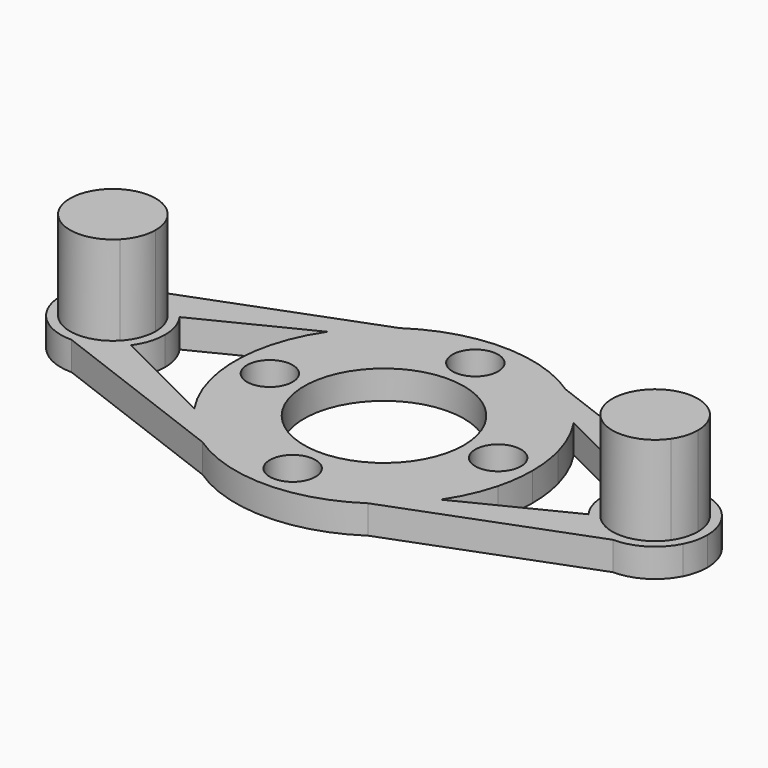
from build123d import *

# Parameters (mm, degrees)
F0_R     = 1.6
F0_R_2   = 5.6
F1_DEPTH = 2
F2_DEPTH = 8.25


with BuildPart() as f1:
    # F0 (on Top) → F1 (new body)
    with BuildSketch(Plane.XY):
        with BuildLine():
            ThreePointArc((-18.9731018348, 3.6568268038), (-17.320799056, 3.2485981552), (-16.0322288298, 2.1366890427))
            Line((-16.0322288298, 2.1366890427), (-8.6335967813, 5.828463599))
            ThreePointArc((-8.6335967813, 5.828463599), (-7.3586805521, 7.372909998), (-5.8117741191, 8.6448402469))
            Line((-5.8117741191, 8.6448402469), (-18.9731018348, 3.6568268038))
        make_face()
        with BuildLine():
            ThreePointArc((-8.6335967813, 5.828463599), (-9.4944345457, 4.2855214342), (-10.0821279265, 2.6192895563))
            ThreePointArc((-10.0821279265, 2.6192895563), (-10.416812435, 0), (-10.0821279265, -2.6192895563))
            ThreePointArc((-10.0821279265, -2.6192895563), (-9.4944345457, -4.2855214342), (-8.6335967813, -5.828463599))
            ThreePointArc((-8.6335967813, -5.828463599), (-7.3586805521, -7.372909998), (-5.8117741191, -8.6448402469))
            ThreePointArc((-5.8117741191, -8.6448402469), (0, -10.416812435), (5.8117741191, -8.6448402469))
            ThreePointArc((5.8117741191, -8.6448402469), (7.3586805521, -7.372909998), (8.6335967813, -5.828463599))
            ThreePointArc((8.6335967813, -5.828463599), (9.4944345457, -4.2855214342), (10.0821279265, -2.6192895563))
            ThreePointArc((10.0821279265, -2.6192895563), (10.3328025449, -1.3202927232), (10.416812435, 0))
            ThreePointArc((10.416812435, 0), (10.3328025449, 1.3202927232), (10.0821279265, 2.6192895563))
            ThreePointArc((10.0821279265, 2.6192895563), (9.4944345457, 4.2855214342), (8.6335967813, 5.828463599))
            ThreePointArc((8.6335967813, 5.828463599), (7.3586805521, 7.372909998), (5.8117741191, 8.6448402469))
            ThreePointArc((5.8117741191, 8.6448402469), (0, 10.416812435), (-5.8117741191, 8.6448402469))
            ThreePointArc((-5.8117741191, 8.6448402469), (-7.3586805521, 7.372909998), (-8.6335967813, 5.828463599))
        make_face()
        with Locations((0, -8)):
            Circle(F0_R, mode=Mode.SUBTRACT)
        with Locations((-8, 0)):
            Circle(F0_R, mode=Mode.SUBTRACT)
        Circle(F0_R_2, mode=Mode.SUBTRACT)
        with Locations((8, 0)):
            Circle(F0_R, mode=Mode.SUBTRACT)
        with Locations((0, 8)):
            Circle(F0_R, mode=Mode.SUBTRACT)
        with BuildLine():
            Line((-8.6335967813, -5.828463599), (-16.0322288298, -2.1366890427))
            ThreePointArc((-16.0322288298, -2.1366890427), (-17.320799056, -3.2485981552), (-18.9731018348, -3.6568268038))
            Line((-18.9731018348, -3.6568268038), (-5.8117741191, -8.6448402469))
            ThreePointArc((-5.8117741191, -8.6448402469), (-7.3586805521, -7.372909998), (-8.6335967813, -5.828463599))
        make_face()
        with BuildLine():
            Line((-16.0322288298, -2.1366890427), (-16.8304310474, -2.0719484935))
            ThreePointArc((-16.8304310474, -2.0719484935), (-19.2425274379, -2.9901806704), (-21.4751168939, -1.695227525))
            Line((-21.4751168939, -1.695227525), (-22.2733191115, -1.6304869758))
            ThreePointArc((-22.2733191115, -1.6304869758), (-20.9134590444, -3.1163729349), (-18.9731018348, -3.6568268038))
            ThreePointArc((-18.9731018348, -3.6568268038), (-17.320799056, -3.2485981552), (-16.0322288298, -2.1366890427))
        make_face()
        with BuildLine():
            ThreePointArc((-21.4751168939, -1.695227525), (-22, 0), (-21.4751168939, 1.695227525))
            Line((-21.4751168939, 1.695227525), (-22.2733191115, 1.6304869758))
            ThreePointArc((-22.2733191115, 1.6304869758), (-22.6569257285, 0), (-22.2733191115, -1.6304869758))
            Line((-22.2733191115, -1.6304869758), (-21.4751168939, -1.695227525))
        make_face()
        with BuildLine():
            ThreePointArc((-21.4751168939, 1.695227525), (-19.2425274379, 2.9901806704), (-16.8304310474, 2.0719484935))
            Line((-16.8304310474, 2.0719484935), (-16.0322288298, 2.1366890427))
            ThreePointArc((-16.0322288298, 2.1366890427), (-17.320799056, 3.2485981552), (-18.9731018348, 3.6568268038))
            ThreePointArc((-18.9731018348, 3.6568268038), (-20.9134590444, 3.1163729349), (-22.2733191115, 1.6304869758))
            Line((-22.2733191115, 1.6304869758), (-21.4751168939, 1.695227525))
        make_face()
        with BuildLine():
            ThreePointArc((-16.8304310474, 2.0719484935), (-16.2153360294, 1.116085378), (-16, 0))
            ThreePointArc((-16, 0), (-16.2153360294, -1.116085378), (-16.8304310474, -2.0719484935))
            Line((-16.8304310474, -2.0719484935), (-16.0322288298, -2.1366890427))
            ThreePointArc((-16.0322288298, -2.1366890427), (-15.5196246946, -1.1225388713), (-15.3430742715, 0))
            ThreePointArc((-15.3430742715, 0), (-15.5196246946, 1.1225388713), (-16.0322288298, 2.1366890427))
            Line((-16.0322288298, 2.1366890427), (-16.8304310474, 2.0719484935))
        make_face()
        with BuildLine():
            ThreePointArc((8.6335967813, -5.828463599), (7.3586805521, -7.372909998), (5.8117741191, -8.6448402469))
            Line((5.8117741191, -8.6448402469), (18.9731018348, -3.6568268038))
            ThreePointArc((18.9731018348, -3.6568268038), (17.320799056, -3.2485981552), (16.0322288298, -2.1366890427))
            Line((16.0322288298, -2.1366890427), (8.6335967813, -5.828463599))
        make_face()
        with BuildLine():
            Line((18.9731018348, 3.6568268038), (5.8117741191, 8.6448402469))
            ThreePointArc((5.8117741191, 8.6448402469), (7.3586805521, 7.372909998), (8.6335967813, 5.828463599))
            Line((8.6335967813, 5.828463599), (16.0322288298, 2.1366890427))
            ThreePointArc((16.0322288298, 2.1366890427), (17.320799056, 3.2485981552), (18.9731018348, 3.6568268038))
        make_face()
        with BuildLine():
            ThreePointArc((22.2733191115, 1.6304869758), (20.9134590444, 3.1163729349), (18.9731018348, 3.6568268038))
            ThreePointArc((18.9731018348, 3.6568268038), (17.320799056, 3.2485981552), (16.0322288298, 2.1366890427))
            Line((16.0322288298, 2.1366890427), (16.8304310474, 2.0719484935))
            ThreePointArc((16.8304310474, 2.0719484935), (19.2425274379, 2.9901806704), (21.4751168939, 1.695227525))
            Line((21.4751168939, 1.695227525), (22.2733191115, 1.6304869758))
        make_face()
        with BuildLine():
            Line((16.8304310474, 2.0719484935), (16.0322288298, 2.1366890427))
            ThreePointArc((16.0322288298, 2.1366890427), (15.3430742715, 0), (16.0322288298, -2.1366890427))
            Line((16.0322288298, -2.1366890427), (16.8304310474, -2.0719484935))
            ThreePointArc((16.8304310474, -2.0719484935), (16, 0), (16.8304310474, 2.0719484935))
        make_face()
        with BuildLine():
            ThreePointArc((16.0322288298, -2.1366890427), (17.320799056, -3.2485981552), (18.9731018348, -3.6568268038))
            ThreePointArc((18.9731018348, -3.6568268038), (20.9134590444, -3.1163729349), (22.2733191115, -1.6304869758))
            Line((22.2733191115, -1.6304869758), (21.4751168939, -1.695227525))
            ThreePointArc((21.4751168939, -1.695227525), (19.2425274379, -2.9901806704), (16.8304310474, -2.0719484935))
            Line((16.8304310474, -2.0719484935), (16.0322288298, -2.1366890427))
        make_face()
        with BuildLine():
            ThreePointArc((22.6569257285, 0), (22.5597324802, 0.8375025097), (22.2733191115, 1.6304869758))
            Line((22.2733191115, 1.6304869758), (21.4751168939, 1.695227525))
            ThreePointArc((21.4751168939, 1.695227525), (21.8657765686, 0.8873131686), (22, 0))
            ThreePointArc((22, 0), (21.8657765686, -0.8873131686), (21.4751168939, -1.695227525))
            Line((21.4751168939, -1.695227525), (22.2733191115, -1.6304869758))
            ThreePointArc((22.2733191115, -1.6304869758), (22.5597324802, -0.8375025097), (22.6569257285, 0))
        make_face()
    extrude(amount=F1_DEPTH)

    # F0 (on Top) → F2 (join)
    with BuildSketch(Plane.XY):
        with BuildLine():
            ThreePointArc((-16.8304310474, -2.0719484935), (-16.2153360294, -1.116085378), (-16, 0))
            ThreePointArc((-16, 0), (-16.2153360294, 1.116085378), (-16.8304310474, 2.0719484935))
            Line((-16.8304310474, 2.0719484935), (-21.4751168939, 1.695227525))
            ThreePointArc((-21.4751168939, 1.695227525), (-22, 0), (-21.4751168939, -1.695227525))
            Line((-21.4751168939, -1.695227525), (-16.8304310474, -2.0719484935))
        make_face()
        with BuildLine():
            Line((21.4751168939, 1.695227525), (16.8304310474, 2.0719484935))
            ThreePointArc((16.8304310474, 2.0719484935), (16, 0), (16.8304310474, -2.0719484935))
            Line((16.8304310474, -2.0719484935), (21.4751168939, -1.695227525))
            ThreePointArc((21.4751168939, -1.695227525), (21.8657765686, -0.8873131686), (22, 0))
            ThreePointArc((22, 0), (21.8657765686, 0.8873131686), (21.4751168939, 1.695227525))
        make_face()
        with BuildLine():
            Line((-21.4751168939, 1.695227525), (-16.8304310474, 2.0719484935))
            ThreePointArc((-16.8304310474, 2.0719484935), (-19.2425274379, 2.9901806704), (-21.4751168939, 1.695227525))
        make_face()
        with BuildLine():
            ThreePointArc((-21.4751168939, -1.695227525), (-19.2425274379, -2.9901806704), (-16.8304310474, -2.0719484935))
            Line((-16.8304310474, -2.0719484935), (-21.4751168939, -1.695227525))
        make_face()
        with BuildLine():
            Line((21.4751168939, -1.695227525), (16.8304310474, -2.0719484935))
            ThreePointArc((16.8304310474, -2.0719484935), (19.2425274379, -2.9901806704), (21.4751168939, -1.695227525))
        make_face()
        with BuildLine():
            ThreePointArc((21.4751168939, 1.695227525), (19.2425274379, 2.9901806704), (16.8304310474, 2.0719484935))
            Line((16.8304310474, 2.0719484935), (21.4751168939, 1.695227525))
        make_face()
    extrude(amount=F2_DEPTH)


solid = f1.part
